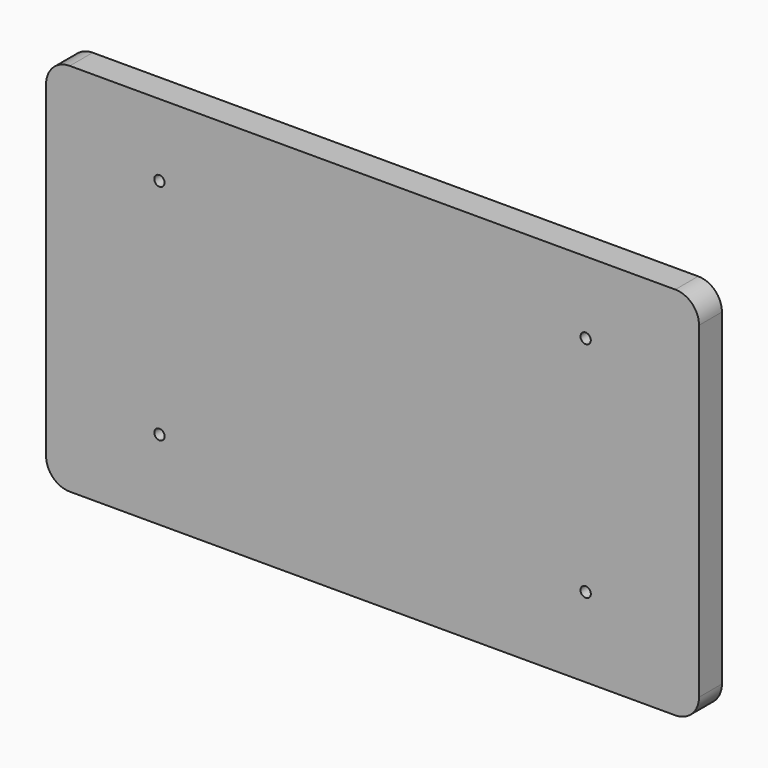
from build123d import *

# Parameters (mm, degrees)
F1_DEPTH = 8.46074
F2_R     = 1.524
F3_DEPTH = 5.08


with BuildPart() as f1:
    # F0 (on Front) → F1 (new body)
    with BuildSketch(Plane.XZ):
        with BuildLine():
            ThreePointArc((96.4946, 48.387), (94.441301, 53.344101), (89.4842, 55.3974))
            Line((89.4842, 55.3974), (-89.4842, 55.3974))
            ThreePointArc((-89.4842, 55.3974), (-94.441301, 53.344101), (-96.4946, 48.387))
            Line((-96.4946, 48.387), (-96.4946, -48.387))
            ThreePointArc((-96.4946, -48.387), (-94.441301, -53.344101), (-89.4842, -55.3974))
            Line((-89.4842, -55.3974), (89.4842, -55.3974))
            ThreePointArc((89.4842, -55.3974), (94.441301, -53.344101), (96.4946, -48.387))
            Line((96.4946, -48.387), (96.4946, 48.387))
        make_face()
    extrude(amount=F1_DEPTH)

    # F2 (on face) → F3 (cut)
    with BuildSketch(Plane.XZ.offset(8.46074)):
        with Locations((-62.992, 34.0868)):
            Circle(F2_R)
        with Locations((62.992, 34.0868)):
            Circle(F2_R)
        with Locations((62.992, -31.9024)):
            Circle(F2_R)
        with Locations((-62.992, -31.9024)):
            Circle(F2_R)
    extrude(amount=-F3_DEPTH, mode=Mode.SUBTRACT)


solid = f1.part
